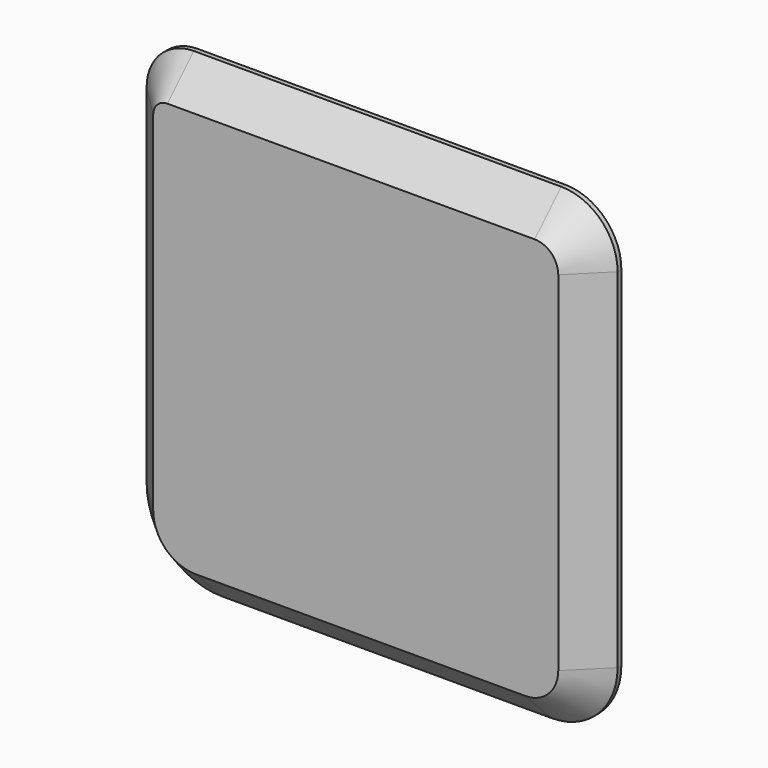
from build123d import *

# Parameters (mm, degrees)
F1_DEPTH = 4
F2_SIZE  = 3.5


with BuildPart() as f1:
    # F0 (on Front) → F1 (new body)
    with BuildSketch(Plane.XZ):
        with BuildLine():
            ThreePointArc((25, 19), (23.242641, 23.242641), (19, 25))
            Line((19, 25), (-20, 25))
            ThreePointArc((-20, 25), (-23.535534, 23.535534), (-25, 20))
            Line((-25, 20), (-25, -17))
            ThreePointArc((-25, -17), (-22.656854, -22.656854), (-17, -25))
            Line((-17, -25), (18, -25))
            ThreePointArc((18, -25), (22.949747, -22.949747), (25, -18))
            Line((25, -18), (25, 19))
        make_face()
    extrude(amount=F1_DEPTH)

    # F2
    f2_edges = [f1.edges().sort_by_distance(p)[0] for p in [
        (23.242641, -4, 23.242641),
        (-0.5, -4, 25),
        (-23.535534, -4, 23.535534),
        (-25, -4, 1.5),
        (-22.656854, -4, -22.656854),
        (0.5, -4, -25),
        (22.949747, -4, -22.949747),
        (25, -4, 0.5),
    ]]
    chamfer(f2_edges, length=F2_SIZE)


solid = f1.part
